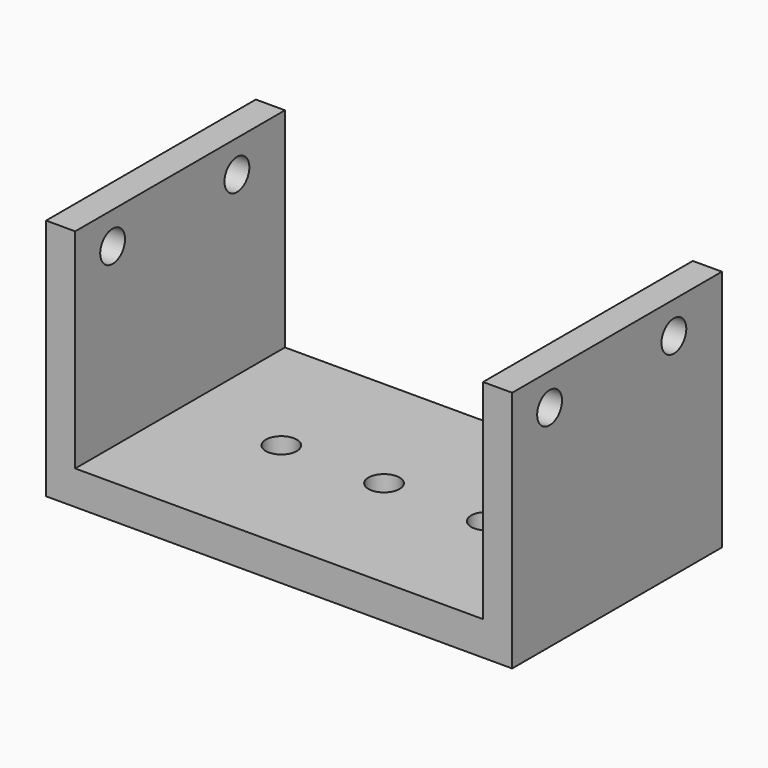
from build123d import *

# Parameters (mm, degrees)
F0_W     = 42
F0_H     = 27
F2_DEPTH = 3.5
F0_W_2   = 3
F3_DEPTH = 25
F4_DEPTH = 25
F5_D     = 3.2
F5_DEPTH = 24.001
F6_D     = 3.2
F6_DEPTH = 24.001
F7_D     = 3.2


with BuildPart() as f2:
    # F0 (on Top) → F2 (new body)
    with BuildSketch(Plane.XY):
        Rectangle(F0_W, F0_H)
        with BuildLine():
            ThreePointArc((-12.175, 0), (-10.575, 1.6), (-8.975, 0))
            ThreePointArc((-8.975, 0), (-10.575, -1.6), (-12.175, 0))
        make_face(mode=Mode.SUBTRACT)
        with BuildLine():
            ThreePointArc((1.6, 0), (0, -1.6), (-1.6, 0))
            ThreePointArc((-1.6, 0), (0, 1.6), (1.6, 0))
        make_face(mode=Mode.SUBTRACT)
        with BuildLine():
            ThreePointArc((12.175, 0), (10.575, -1.6), (8.975, 0))
            ThreePointArc((8.975, 0), (10.575, 1.6), (12.175, 0))
        make_face(mode=Mode.SUBTRACT)
    extrude(amount=F2_DEPTH)

    # F0 (on Top) → F3 (join)
    with BuildSketch(Plane.XY):
        with Locations((-22.5, 0)):
            Rectangle(F0_W_2, F0_H)
    extrude(amount=F3_DEPTH)

    # F0 (on Top) → F4 (join)
    with BuildSketch(Plane.XY):
        with Locations((22.5, 0)):
            Rectangle(F0_W_2, F0_H)
    extrude(amount=F4_DEPTH)

    # F5 (through all, one way)
    with BuildSketch(Plane(origin=(0, 0, 0), x_dir=(0, 1, 0), z_dir=(-1, 0, 0))):
        with Locations((-8.6837460197, -21.689)):
            Circle(F5_D / 2)
    extrude(amount=-F5_DEPTH, mode=Mode.SUBTRACT)

    # F6 (through all, one way)
    with BuildSketch(Plane(origin=(0, 0, 0), x_dir=(0, 1, 0), z_dir=(-1, 0, 0))):
        with Locations((7.3162539803, -21.689)):
            Circle(F6_D / 2)
    extrude(amount=-F6_DEPTH, mode=Mode.SUBTRACT)

    # F7 (through all)
    with Locations(Plane.YZ):
        with Locations((-8.6837460197, 21.689), (7.3162539803, 21.689)):
            Hole(F7_D / 2)


solid = f2.part
